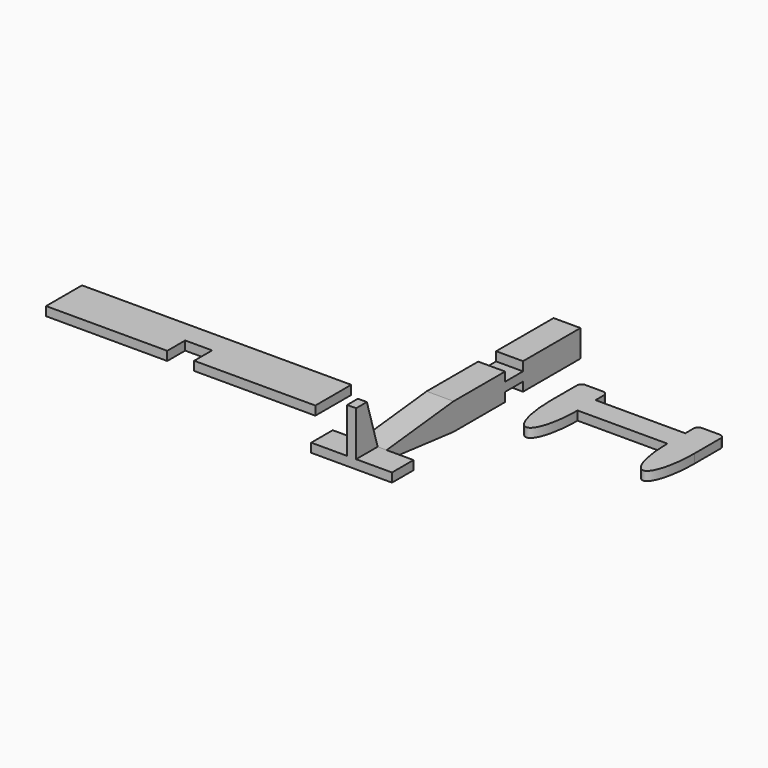
from build123d import *

# Parameters (mm, degrees)
F0_W      = 76.2
F0_H      = 12.7
F1_DEPTH  = 2.54
F2_W      = 7.62
F2_H      = 6.35
F3_DEPTH  = 2.54
F4_W      = 7.62
F4_H      = 76.2
F5_DEPTH  = 2.54
F6_W      = 7.62
F6_H      = 20.32
F6_H_2    = 49.53
F7_DEPTH  = 2.54
F8_W      = 7.62
F8_H      = 20.32
F8_H_2    = 49.53
F9_DEPTH  = 2.54
F10_W     = 25.4
F10_H     = 6.35
F11_DEPTH = 2.54
F12_W     = 22.86
F12_H     = 7.62
F13_DEPTH = 2.54
F14_W     = 2.54
F14_H     = 7.62
F15_DEPTH = 15.24
F17_DEPTH = 7.62
F18_W     = 7.62
F18_H     = 2.54
F19_DEPTH = 2.54
F20_W     = 7.62
F20_H     = 2.54
F21_DEPTH = 2.54
F23_DEPTH = 7.62
F25_DEPTH = 2.54


with BuildPart() as f1:
    # F0 (on Top) → F1 (new body)
    with BuildSketch(Plane.XY):
        with Locations((-38.1, 6.35)):
            Rectangle(F0_W, F0_H)
    extrude(amount=F1_DEPTH)

    # F2 (on face) → F3 (cut, through all)
    with BuildSketch(Plane.XY.offset(2.54)):
        with Locations((-38.1, 3.175)):
            Rectangle(F2_W, F2_H)
    extrude(amount=-F3_DEPTH, mode=Mode.SUBTRACT)


with BuildPart() as f5:
    # F4 (on Top) → F5 (new body)
    with BuildSketch(Plane.XY):
        with Locations((21.8177004717, 23.6597382314)):
            Rectangle(F4_W, F4_H)
    extrude(amount=F5_DEPTH)

    # F6 (on face) → F7 (join)
    with BuildSketch(Plane.XY.offset(2.54)):
        with Locations((21.8177004717, 51.5997382314)):
            Rectangle(F6_W, F6_H)
        with Locations((21.8177004717, 10.3247382314)):
            Rectangle(F6_W, F6_H_2)
    extrude(amount=F7_DEPTH)

    # F8 (on face) → F9 (join)
    with BuildSketch(Plane(origin=(0, 0, 0), x_dir=(1, 0, 0), z_dir=(0, 0, -1))):
        with Locations((21.8177004717, -51.5997382314)):
            Rectangle(F8_W, F8_H)
        with Locations((21.8177004717, -10.3247382314)):
            Rectangle(F8_W, F8_H_2)
    extrude(amount=F9_DEPTH)

    # F12 (on Top) → F13 (join)
    with BuildSketch(Plane.XY):
        with Locations((21.8177004717, -10.6302617686)):
            Rectangle(F12_W, F12_H)
    extrude(amount=F13_DEPTH)

    # F14 (on Top) → F15 (join)
    with BuildSketch(Plane.XY):
        with Locations((21.8177004717, -10.6302617686)):
            Rectangle(F14_W, F14_H)
    extrude(amount=F15_DEPTH)

    # F16 (on face) → F17 (cut, through all)
    with BuildSketch(Plane(origin=(18.0077004717, 0, 0), x_dir=(0, -1, 0), z_dir=(-1, 0, 0))):
        Polygon((-16.8571248651, -2.54), (14.4402617686, -2.54), (14.4402617686, 0), (6.8202617686, 0), align=None)
    extrude(amount=-F17_DEPTH, mode=Mode.SUBTRACT)

    # F18 (on face) → F19 (cut)
    with BuildSketch(Plane(origin=(18.0077004717, 0, 0), x_dir=(0, -1, 0), z_dir=(-1, 0, 0))):
        with Locations((10.6302617686, 3.81)):
            Rectangle(F18_W, F18_H)
    extrude(amount=-F19_DEPTH, mode=Mode.SUBTRACT)

    # F20 (on face) → F21 (cut)
    with BuildSketch(Plane.YZ.offset(25.6277004717)):
        with Locations((-10.6302617686, 3.81)):
            Rectangle(F20_W, F20_H)
    extrude(amount=-F21_DEPTH, mode=Mode.SUBTRACT)

    # F22 (on face) → F23 (cut, through all)
    with BuildSketch(Plane(origin=(18.0077004717, 0, 0), x_dir=(0, -1, 0), z_dir=(-1, 0, 0))):
        Polygon((-16.8571248651, 5.08), (6.8202617686, 2.54), (6.8202617686, 5.08), align=None)
    extrude(amount=-F23_DEPTH, mode=Mode.SUBTRACT)

    # F24 (on face) → F25 (cut, through all)
    with BuildSketch(Plane(origin=(20.5477004717, 0, 0), x_dir=(0, -1, 0), z_dir=(-1, 0, 0))):
        Polygon((6.8202617686, 15.24), (6.8202617686, 2.54), (10.6302617686, 15.24), align=None)
    extrude(amount=-F25_DEPTH, mode=Mode.SUBTRACT)


with BuildPart() as f11:
    # F10 (on Top) → F11 (new body)
    with BuildSketch(Plane.XY):
        with Locations((59.4366904274, 37.5256821616)):
            Rectangle(F10_W, F10_H)
        with BuildLine():
            Line((46.7366904274, 34.3506821616), (46.7366904274, 40.7006821616))
            Line((46.7366904274, 40.7006821616), (46.7366904274, 43.6919351065))
            ThreePointArc((46.7366904274, 43.6919351065), (46.3647160395, 44.5899607186), (45.4666904274, 44.9619351065))
            Line((45.4666904274, 44.9619351065), (40.3866904274, 44.9619351065))
            ThreePointArc((40.3866904274, 44.9619351065), (39.4886648153, 44.5899607186), (39.1166904274, 43.6919351065))
            Line((39.1166904274, 43.6919351065), (39.1166904274, 34.3506821616))
            add(Edge.make_bspline(
                [(39.1166904274, 34.3506821616), (39.1166904274, 21.0156821616), (42.9266904274, 21.0156821616), (46.7366904274, 21.0156821616), (46.7366904274, 34.3506821616)],
                knots=[4.7123889804, 4.7123889804, 4.7123889804, 6.2831853072, 6.2831853072, 7.853981634, 7.853981634, 7.853981634], degree=2, weights=[1, 0.7071067812, 1, 0.7071067812, 1]))
        make_face()
        with BuildLine():
            Line((72.1366904274, 43.6919351065), (72.1366904274, 40.7006821616))
            Line((72.1366904274, 40.7006821616), (72.1366904274, 34.3506821616))
            add(Edge.make_bspline(
                [(72.1366904274, 34.3506821616), (72.1366904274, 21.0156821616), (75.9466904274, 21.0156821616), (79.7566904274, 21.0156821616), (79.7566904274, 34.3506821616)],
                knots=[4.7123889804, 4.7123889804, 4.7123889804, 6.2831853072, 6.2831853072, 7.853981634, 7.853981634, 7.853981634], degree=2, weights=[1, 0.7071067812, 1, 0.7071067812, 1]))
            Line((79.7566904274, 34.3506821616), (79.7566904274, 43.6919351065))
            ThreePointArc((79.7566904274, 43.6919351065), (79.3847160395, 44.5899607186), (78.4866904274, 44.9619351065))
            Line((78.4866904274, 44.9619351065), (73.4066904274, 44.9619351065))
            ThreePointArc((73.4066904274, 44.9619351065), (72.5086648153, 44.5899607186), (72.1366904274, 43.6919351065))
        make_face()
    extrude(amount=F11_DEPTH)


solid = Compound([f1.part, f5.part, f11.part])
